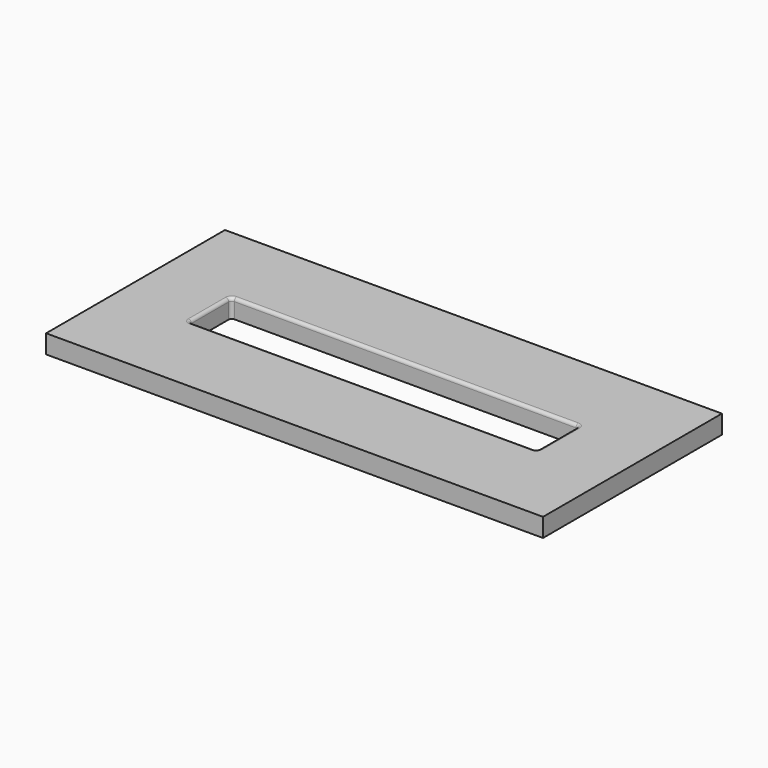
from build123d import *

# Parameters (mm, degrees)
F0_W     = 508
F0_H     = 228.6
F0_W_2   = 355.6
F0_H_2   = 53.975
F1_DEPTH = 9.525
F2_R     = 3.175


with BuildPart() as f1:
    # F0 (on Top) → F1 (new body, symmetric)
    with BuildSketch(Plane.XY):
        Rectangle(F0_W, F0_H)
        Rectangle(F0_W_2, F0_H_2, mode=Mode.SUBTRACT)
    extrude(amount=F1_DEPTH, both=True)

    # F2
    f2_edges = [f1.edges().sort_by_distance(p)[0] for p in [
        (-177.8, 0, 9.525),
        (0, 26.9875, 9.525),
        (0, -26.9875, 9.525),
        (177.8, 0, 9.525),
        (177.8, 26.9875, 0),
        (-177.8, 26.9875, 0),
        (-177.8, -26.9875, 0),
        (177.8, -26.9875, 0),
    ]]
    fillet(f2_edges, radius=F2_R)


solid = f1.part
